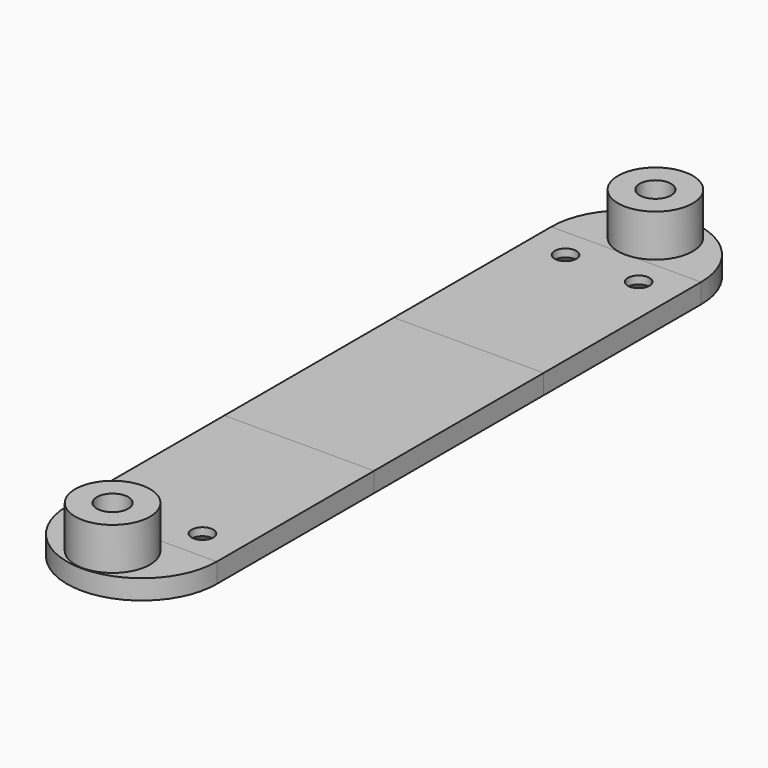
from build123d import *

# Parameters (mm, degrees)
SKETCH001_W     = 15.232
SKETCH001_H     = 20
SKETCH001_R     = 1.1
PAD001_DEPTH    = 2
CHAMFER002_SIZE = 1.2
SKETCH002_R     = 1.6
PAD_DEPTH       = 2
CHAMFER_SIZE    = 1.65
CHAMFER003_SIZE = 1.65
SKETCH_W        = 15.232
SKETCH_H        = 21.56
PAD002_DEPTH    = 2
SKETCH004_R     = 3.8
SKETCH004_R_2   = 1.6
PAD003_DEPTH    = 4.3


with BuildPart() as chamfer002:
    # Sketch001 → Pad001 (new body)
    with BuildSketch(Plane.XY):
        with Locations((7.616, -10)):
            Rectangle(SKETCH001_W, SKETCH001_H)
        with Locations((3.8995, -16.9419)):
            Circle(SKETCH001_R, mode=Mode.SUBTRACT)
        with Locations((11.3325, -16.9419)):
            Circle(SKETCH001_R, mode=Mode.SUBTRACT)
        with Locations((7.616, 31.56)):
            Rectangle(SKETCH001_W, SKETCH001_H)
        with Locations((3.8995, 38.5019)):
            Circle(SKETCH001_R, mode=Mode.SUBTRACT)
        with Locations((11.3325, 38.5019)):
            Circle(SKETCH001_R, mode=Mode.SUBTRACT)
    extrude(amount=PAD001_DEPTH)

    # Chamfer002
    chamfer002_edges = [chamfer002.edges().sort_by_distance(p)[0] for p in [
        (10.2325, -16.9419, 0),
        (2.7995, -16.9419, 0),
        (10.2325, 38.5019, 0),
        (2.7995, 38.5019, 0),
    ]]
    chamfer(chamfer002_edges, length=CHAMFER002_SIZE)


with BuildPart() as chamfer003:
    # Sketch002 → Pad (new body)
    with BuildSketch(Plane.XY):
        with BuildLine():
            ThreePointArc((15.232, 41.56), (7.616, 49.176), (0, 41.56))
            Line((0, 41.56), (15.232, 41.56))
        make_face()
        with Locations((7.616, 45.28)):
            Circle(SKETCH002_R, mode=Mode.SUBTRACT)
        with BuildLine():
            ThreePointArc((0, -20), (7.616, -27.616), (15.232, -20))
            Line((0, -20), (15.232, -20))
        make_face()
        with Locations((7.616, -23.72)):
            Circle(SKETCH002_R, mode=Mode.SUBTRACT)
    extrude(amount=PAD_DEPTH)

    # Chamfer
    chamfer_edges = [chamfer003.edges().sort_by_distance(p)[0] for p in [
        (6.016, 45.28, 0),
    ]]
    chamfer(chamfer_edges, length=CHAMFER_SIZE)

    # Chamfer003
    chamfer003_edges = [chamfer003.edges().sort_by_distance(p)[0] for p in [
        (6.016, -23.72, 0),
    ]]
    chamfer(chamfer003_edges, length=CHAMFER003_SIZE)


with BuildPart() as pad002:
    # Sketch → Pad002 (new body)
    with BuildSketch(Plane.XY):
        with Locations((7.616, 10.78)):
            Rectangle(SKETCH_W, SKETCH_H)
    extrude(amount=PAD002_DEPTH)


with BuildPart() as pad003:
    # Sketch004 → Pad003 (new body)
    with BuildSketch(Plane.XY.offset(2)):
        with Locations((7.616, 45.28)):
            Circle(SKETCH004_R)
        with Locations((7.616, 45.28)):
            Circle(SKETCH004_R_2, mode=Mode.SUBTRACT)
        with Locations((7.616, -23.72)):
            Circle(SKETCH004_R)
        with Locations((7.616, -23.72)):
            Circle(SKETCH004_R_2, mode=Mode.SUBTRACT)
    extrude(amount=PAD003_DEPTH)


solid = Compound([chamfer002.part, chamfer003.part, pad002.part, pad003.part])
